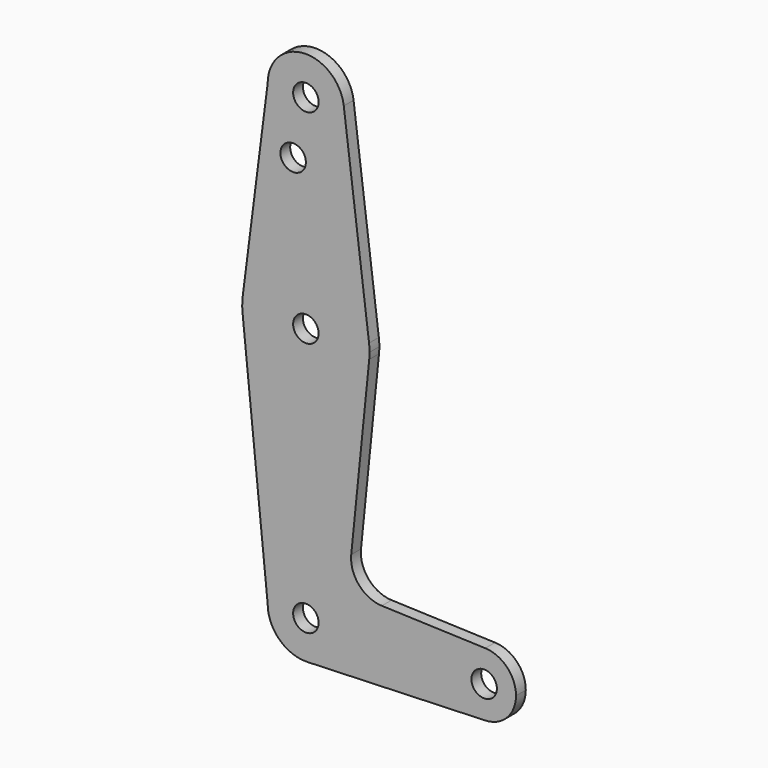
from build123d import *

# Parameters (mm, degrees)
F0_R     = 3.175
F1_DEPTH = 3.048


with BuildPart() as f1:
    # F0 (on Front) → F1 (new body)
    with BuildSketch(Plane.XZ):
        with BuildLine():
            ThreePointArc((-9.525, 114.3), (0, 104.775), (9.525, 114.3))
            ThreePointArc((9.525, 114.3), (9.506305, 114.896483), (9.450293, 115.490625))
            ThreePointArc((9.450293, 115.490625), (-0.596483, 123.806305), (-9.525, 114.3))
        make_face()
        with Locations((0, 114.3)):
            Circle(F0_R, mode=Mode.SUBTRACT)
        with BuildLine():
            ThreePointArc((9.525, 0), (0, 9.525), (-9.525, 0))
            ThreePointArc((-9.525, 0), (-6.613827, -6.854408), (0.340179, -9.518923))
            ThreePointArc((0.340179, -9.518923), (6.854408, -6.613827), (9.525, 0))
        make_face()
        Circle(F0_R, mode=Mode.SUBTRACT)
        with BuildLine():
            ThreePointArc((44.733482, 7.932436), (36.5125, 0), (44.733482, -7.932436))
            ThreePointArc((44.733482, -7.932436), (50.162007, -5.511523), (52.3875, 0))
            ThreePointArc((52.3875, 0), (50.162007, 5.511523), (44.733482, 7.932436))
        make_face()
        with Locations((44.45, 0)):
            Circle(F0_R, mode=Mode.SUBTRACT)
        with BuildLine():
            ThreePointArc((15.875, 63.5), (15.843841, 64.494139), (15.750488, 65.484375))
            ThreePointArc((15.750488, 65.484375), (0.012053, 79.374995), (-15.747457, 65.508289))
            ThreePointArc((-15.747457, 65.508289), (-15.873668, 63.705667), (-15.794203, 61.90038))
            ThreePointArc((-15.794203, 61.90038), (0, 47.625), (15.794203, 61.90038))
            ThreePointArc((15.794203, 61.90038), (15.854788, 62.699171), (15.875, 63.5))
        make_face()
        with Locations((0, 63.5)):
            Circle(F0_R, mode=Mode.SUBTRACT)
        with BuildLine():
            ThreePointArc((15.794203, 61.90038), (0, 47.625), (-15.794203, 61.90038))
            Line((-15.794203, 61.90038), (-9.525, 0))
            ThreePointArc((-9.525, 0), (0, 9.525), (9.525, 0))
            ThreePointArc((9.525, 0), (6.854408, -6.613827), (0.340179, -9.518923))
            Line((0.340179, -9.518923), (44.733482, -7.932436))
            ThreePointArc((44.733482, -7.932436), (36.5125, 0), (44.733482, 7.932436))
            Line((44.733482, 7.932436), (18.933378, 8.854457))
            ThreePointArc((18.933378, 8.854457), (13.224973, 11.574881), (11.307577, 17.600674))
            Line((11.307577, 17.600674), (15.794203, 61.90038))
        make_face()
        with BuildLine():
            ThreePointArc((9.450293, 115.490625), (9.506305, 114.896483), (9.525, 114.3))
            ThreePointArc((9.525, 114.3), (0, 104.775), (-9.525, 114.3))
            Line((-9.525, 114.3), (-15.747457, 65.508289))
            ThreePointArc((-15.747457, 65.508289), (0.012053, 79.374995), (15.750488, 65.484375))
            Line((15.750488, 65.484375), (9.450293, 115.490625))
        make_face()
        with Locations((-3.175, 100.0252)):
            Circle(F0_R, mode=Mode.SUBTRACT)
    extrude(amount=F1_DEPTH)


solid = f1.part
